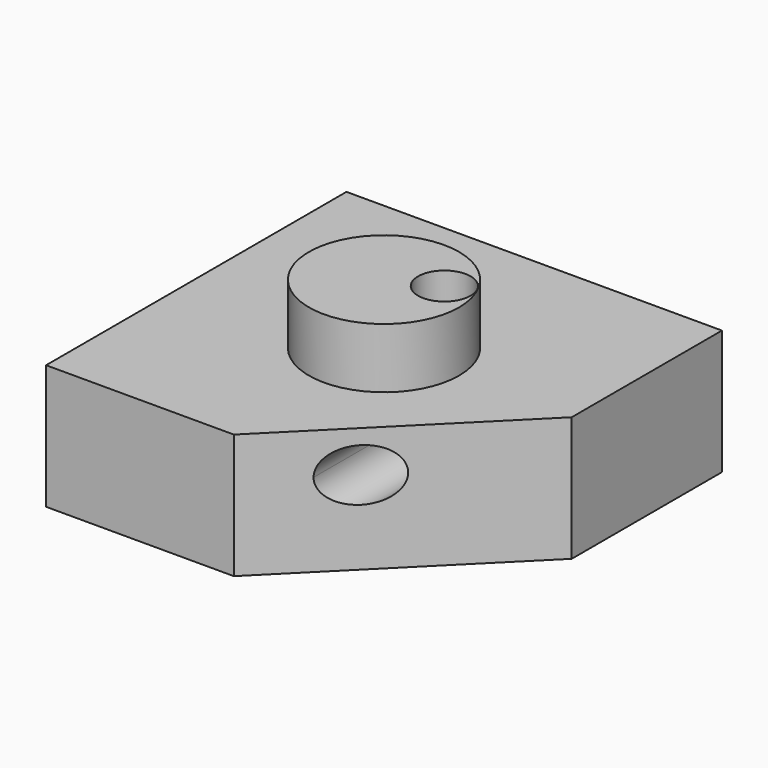
from build123d import *

# Parameters (mm, degrees)
F0_W     = 25
F0_H     = 25
F1_DEPTH = 8.3
F2_R     = 5
F3_DEPTH = 4
F5_DEPTH = 25
F6_R     = 1.75
F7_DEPTH = 25
F9_DEPTH = 25


with BuildPart() as f1:
    # F0 (on Top) → F1 (new body)
    with BuildSketch(Plane.XY):
        Rectangle(F0_W, F0_H)
    extrude(amount=F1_DEPTH)

    # F2 (on face) → F3 (join)
    with BuildSketch(Plane.XY.offset(8.3)):
        Circle(F2_R)
    extrude(amount=F3_DEPTH)

    # F4 (on face) → F5 (cut)
    with BuildSketch(Plane.XY.offset(8.3)):
        Polygon((12.5, -12.5), (12.5, 0), (0, -12.5), align=None)
    extrude(amount=-F5_DEPTH, mode=Mode.SUBTRACT)

    # F6 (on face) → F7 (cut)
    with BuildSketch(Plane.XY.offset(12.3)):
        with Locations((2.900001, 1.400001)):
            Circle(F6_R)
    extrude(amount=-F7_DEPTH, mode=Mode.SUBTRACT)

    # F8 (on face) → F9 (cut)
    with BuildSketch(Plane(origin=(0, 12.5, 0), x_dir=(-1, 0, 0), z_dir=(0, 1, 0))):
        with BuildLine():
            ThreePointArc((-4.7, 7.3), (-5.937437, 4.312563), (-2.95, 5.55))
            ThreePointArc((-2.95, 5.55), (-3.462563, 6.787437), (-4.7, 7.3))
        make_face()
    extrude(amount=-F9_DEPTH, mode=Mode.SUBTRACT)


solid = f1.part
